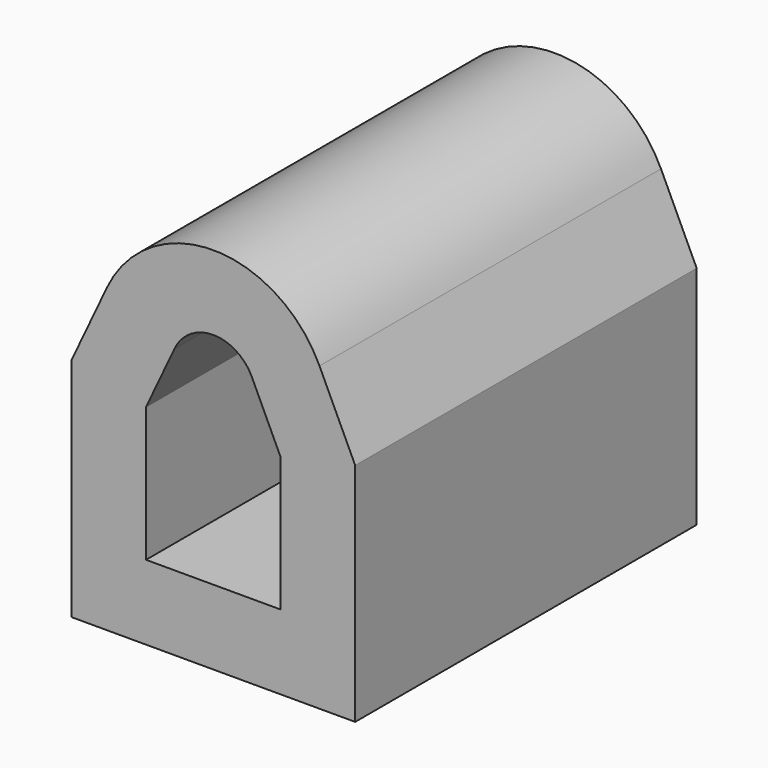
from build123d import *

# Parameters (mm, degrees)
F1_DEPTH = 2


with BuildPart() as f1:
    # F0 (on Front) → F1 (new body)
    with BuildSketch(Plane.XZ):
        with BuildLine():
            Line((-0.665, 0.508155), (-0.665, -0.55))
            Line((-0.665, -0.55), (0.665, -0.55))
            Line((0.665, -0.55), (0.665, 0.508155))
            Line((0.665, 0.508155), (0.497755, 0.863965))
            ThreePointArc((0.497755, 0.863965), (0, 1.18), (-0.497755, 0.863965))
            Line((-0.497755, 0.863965), (-0.665, 0.508155))
        make_face()
        with BuildLine():
            Line((0.315, -0.2), (-0.315, -0.2))
            Line((-0.315, -0.2), (-0.315, 0.43))
            Line((-0.315, 0.43), (-0.181002, 0.715078))
            ThreePointArc((-0.181002, 0.715078), (0, 0.83), (0.181002, 0.715078))
            Line((0.181002, 0.715078), (0.315, 0.43))
            Line((0.315, 0.43), (0.315, -0.2))
        make_face(mode=Mode.SUBTRACT)
    extrude(amount=F1_DEPTH)


solid = f1.part
